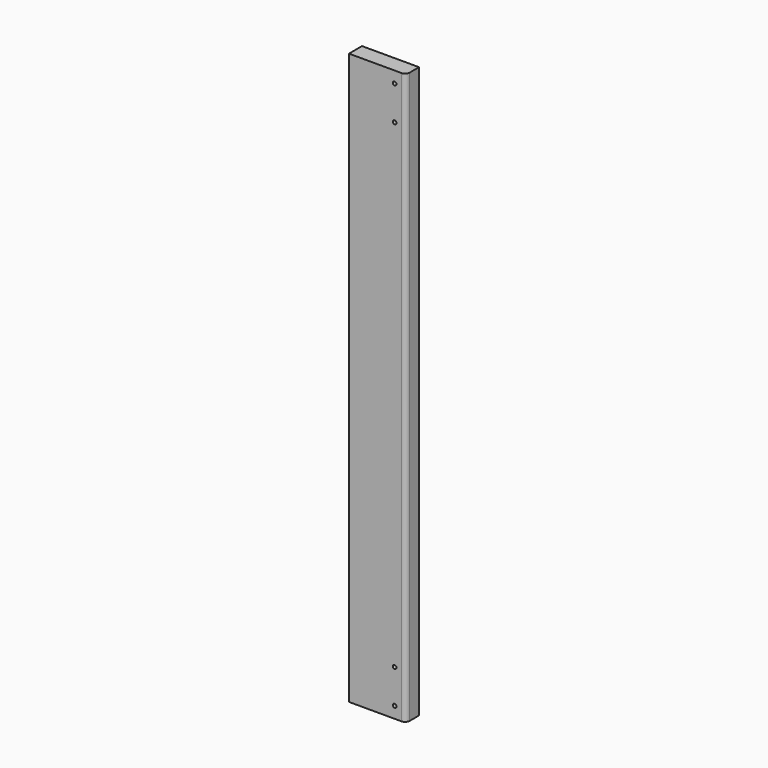
from build123d import *

# Parameters (mm, degrees)
F0_W     = 63.5
F0_H     = 635
F1_DEPTH = 18.161
F2_R     = 2.0193
F3_DEPTH = 18.162
F4_R     = 2.0193
F5_DEPTH = 19.05
F6_R     = 5.08


with BuildPart() as f1:
    # F0 (on Front) → F1 (new body)
    with BuildSketch(Plane.XZ):
        with Locations((31.75, -317.5)):
            Rectangle(F0_W, F0_H)
    extrude(amount=F1_DEPTH)

    # F2 (on face) → F3 (cut, through all)
    with BuildSketch(Plane.XZ.offset(18.161)):
        with Locations((50.8, -12.7)):
            Circle(F2_R)
        with Locations((50.8, -50.8)):
            Circle(F2_R)
        with Locations((50.8, -622.3)):
            Circle(F2_R)
        with Locations((50.8, -584.2)):
            Circle(F2_R)
    extrude(amount=-F3_DEPTH, mode=Mode.SUBTRACT)

    # F4 (on face) → F5 (cut)
    with BuildSketch(Plane(origin=(0, 0, 0), x_dir=(0, -1, 0), z_dir=(-1, 0, 0))):
        with Locations((9.017, -12.7)):
            Circle(F4_R)
        with Locations((9.017, -50.8)):
            Circle(F4_R)
        with Locations((9.017, -622.3)):
            Circle(F4_R)
        with Locations((9.017, -584.2)):
            Circle(F4_R)
    extrude(amount=-F5_DEPTH, mode=Mode.SUBTRACT)

    # F6
    f6_edges = [f1.edges().sort_by_distance(p)[0] for p in [
        (63.5, -18.161, -317.5),
    ]]
    fillet(f6_edges, radius=F6_R)


solid = f1.part
